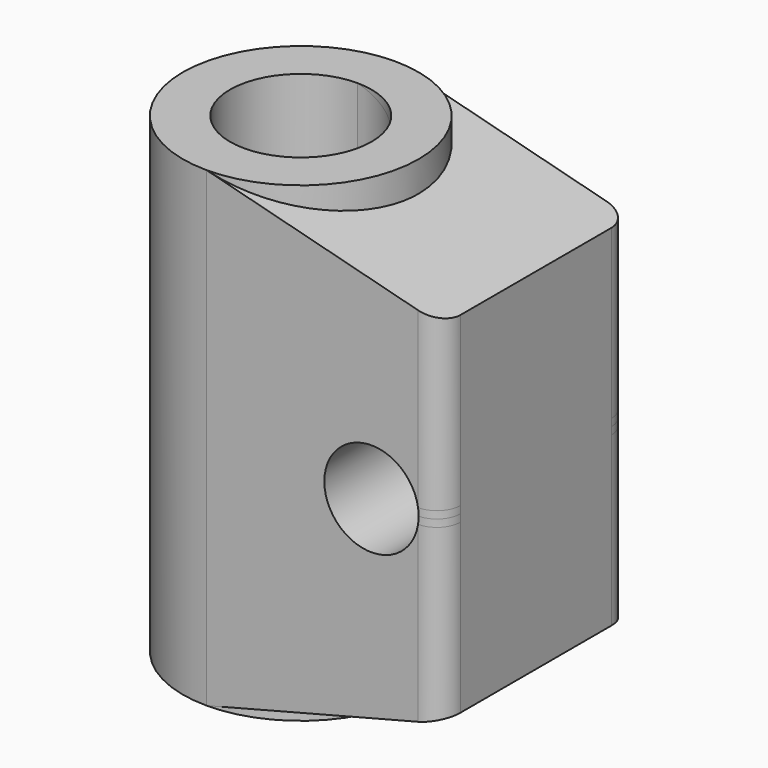
from build123d import *

# Parameters (mm, degrees)
SKETCH_R     = 5
SKETCH_R_2   = 3
PAD_DEPTH    = 20
SKETCH002_R  = 2
PAD001_DEPTH = 5
SKETCH003_R  = 3
POCKET_DEPTH = 20.001
FILLET_R     = 1


with BuildPart() as body:
    # Sketch → Pad (new body)
    with BuildSketch(Plane.XY):
        Circle(SKETCH_R)
        Circle(SKETCH_R_2, mode=Mode.SUBTRACT)
    extrude(amount=PAD_DEPTH)


with BuildPart() as body002:
    # Sketch002 → Pad001 (new body, symmetric)
    with BuildSketch(Plane.XZ):
        Polygon((9.975506, 17.427483), (0, 20), (0, 0), (9.975506, 2.572517), align=None)
        with Locations((7, 10)):
            Circle(SKETCH002_R, mode=Mode.SUBTRACT)
    extrude(amount=PAD001_DEPTH, both=True)

    # Boolean: union Body
    add(body.part)

    # Sketch003 (on Face11 of Boolean) → Pocket (cut, through all)
    with BuildSketch(Plane(origin=(0, 0, 0), x_dir=(1, 0, 0), z_dir=(0, 0, -1))):
        Circle(SKETCH003_R)
    extrude(amount=-POCKET_DEPTH, mode=Mode.SUBTRACT)

    # Fillet
    fillet_edges = [body002.edges().sort_by_distance(p)[0] for p in [
        (9.975506, -5, 10),
        (9.975506, 5, 10),
    ]]
    fillet(fillet_edges, radius=FILLET_R)


solid = body002.part
